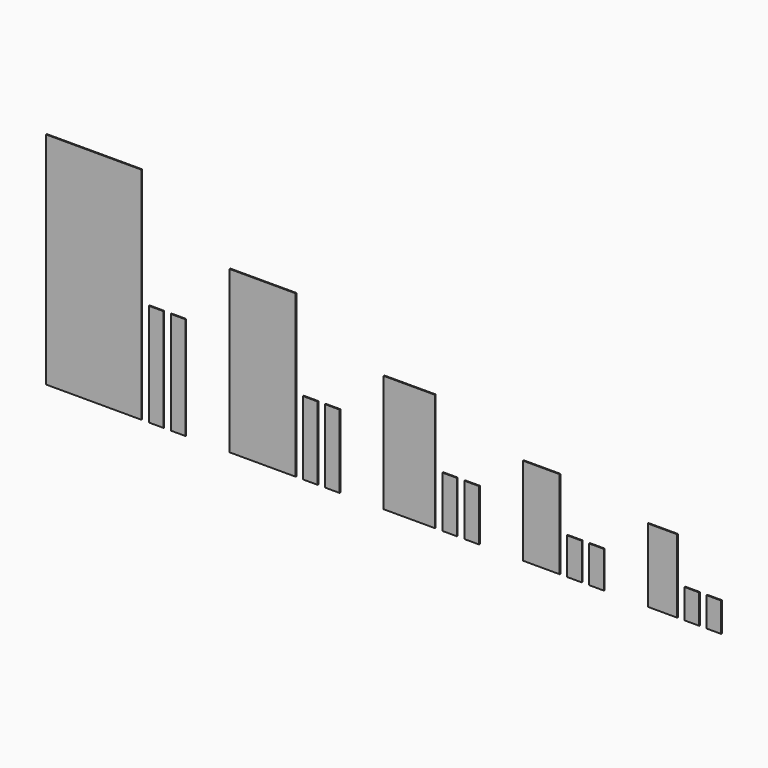
from build123d import *

# Parameters (mm, degrees)
F0_W     = 330.2
F0_H     = 762
F0_W_2   = 50.8
F0_H_2   = 355.6
F1_W     = 228.6
F1_H     = 558.8
F1_W_2   = 50.8
F1_H_2   = 254
F2_W     = 177.8
F2_H     = 406.4
F2_W_2   = 50.8
F2_H_2   = 177.8
F3_W     = 50.8
F3_H     = 127
F3_W_2   = 127
F3_H_2   = 304.8
F4_W     = 50.8
F4_H     = 101.6
F4_W_2   = 101.6
F4_H_2   = 254
F5_DEPTH = 3.175


with BuildPart() as f5:
    # F0 (on Front) + F1 (on Front) + F2 (on Front) + F3 (on Front) + F4 (on Front) → F5 (new body)
    with BuildSketch(Plane.XZ):
        with Locations((-165.1, 381)):
            Rectangle(F0_W, F0_H)
        with Locations((50.8, 177.8)):
            Rectangle(F0_W_2, F0_H_2)
        with Locations((127, 177.8)):
            Rectangle(F0_W_2, F0_H_2)
    with BuildSketch(Plane.XZ):
        with Locations((419.1, 279.4)):
            Rectangle(F1_W, F1_H)
        with Locations((584.2, 127)):
            Rectangle(F1_W_2, F1_H_2)
        with Locations((660.4, 127)):
            Rectangle(F1_W_2, F1_H_2)
    with BuildSketch(Plane.XZ):
        with Locations((927.1, 203.2)):
            Rectangle(F2_W, F2_H)
        with Locations((1066.8, 88.9)):
            Rectangle(F2_W_2, F2_H_2)
        with Locations((1143, 88.9)):
            Rectangle(F2_W_2, F2_H_2)
    with BuildSketch(Plane.XZ):
        with Locations((1574.8, 63.5)):
            Rectangle(F3_W, F3_H)
        with Locations((1498.6, 63.5)):
            Rectangle(F3_W, F3_H)
        with Locations((1384.3, 152.4)):
            Rectangle(F3_W_2, F3_H_2)
    with BuildSketch(Plane.XZ):
        with Locations((1981.2, 50.8)):
            Rectangle(F4_W, F4_H)
        with Locations((1905, 50.8)):
            Rectangle(F4_W, F4_H)
        with Locations((1803.4, 127)):
            Rectangle(F4_W_2, F4_H_2)
    extrude(amount=F5_DEPTH)


solid = f5.part
